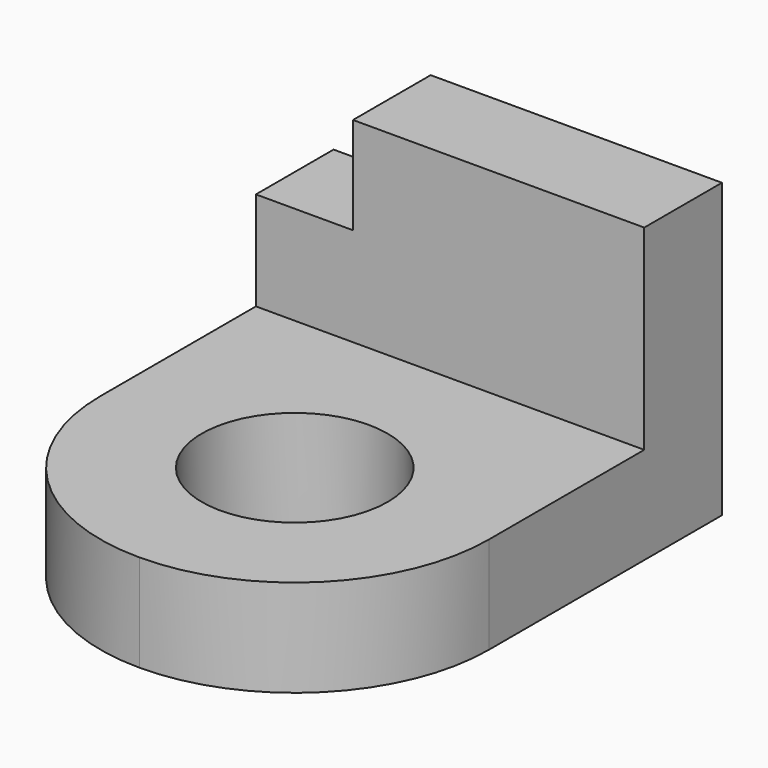
from build123d import *

# Parameters (mm, degrees)
F0_W     = 50.8
F0_H     = 38.1
F1_DEPTH = 12.7
F2_W     = 12.7
F2_H     = 12.7
F3_DEPTH = 12.7
F4_W     = 50.8
F4_H     = 12.7
F5_DEPTH = 63.5
F6_R     = 12.14233
F7_DEPTH = 12.701


with BuildPart() as f1:
    # F0 (on Front) → F1 (new body)
    with BuildSketch(Plane.XZ):
        Rectangle(F0_W, F0_H)
    extrude(amount=F1_DEPTH)

    # F2 (on Front) → F3 (cut)
    with BuildSketch(Plane.XZ):
        with Locations((-19.05, 12.7)):
            Rectangle(F2_W, F2_H)
    extrude(amount=F3_DEPTH, mode=Mode.SUBTRACT)

    # F4 (on Front) → F5 (join)
    with BuildSketch(Plane.XZ):
        with Locations((0, -12.89534)):
            Rectangle(F4_W, F4_H)
    extrude(amount=F5_DEPTH)

    # F6 (on face) → F7 (cut, through all)
    with BuildSketch(Plane.XY.offset(-6.54534)):
        with BuildLine():
            Line((-25.4, -63.5), (0, -63.5))
            ThreePointArc((0, -63.5), (-17.960512, -56.060512), (-25.4, -38.1))
            Line((-25.4, -38.1), (-25.4, -63.5))
        make_face()
        with BuildLine():
            Line((25.4, -63.5), (25.4, -38.1))
            ThreePointArc((25.4, -38.1), (17.960512, -56.060512), (0, -63.5))
            Line((0, -63.5), (25.4, -63.5))
        make_face()
        with Locations((0, -38.1)):
            Circle(F6_R)
    extrude(amount=-F7_DEPTH, mode=Mode.SUBTRACT)


solid = f1.part
